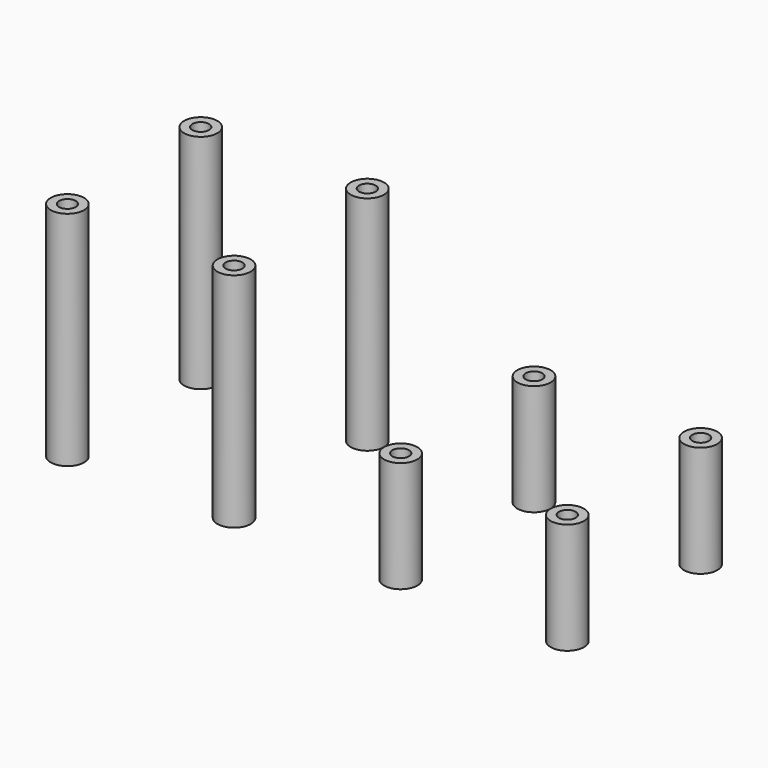
from build123d import *

# Parameters (mm, degrees)
CYLINDER008_R     = 1.5
CYLINDER008_DEPTH = 20
CYLINDER009_R     = 3
CYLINDER009_DEPTH = 20
CYLINDER001_R     = 1.5
CYLINDER001_DEPTH = 40
CYLINDER_R        = 3
CYLINDER_DEPTH    = 40
CYLINDER011_R     = 1.5
CYLINDER011_DEPTH = 40
CYLINDER010_R     = 3
CYLINDER010_DEPTH = 40
CYLINDER013_R     = 1.5
CYLINDER013_DEPTH = 40
CYLINDER012_R     = 3
CYLINDER012_DEPTH = 40
CYLINDER015_R     = 1.5
CYLINDER015_DEPTH = 40
CYLINDER014_R     = 3
CYLINDER014_DEPTH = 40
CYLINDER016_R     = 1.5
CYLINDER016_DEPTH = 20
CYLINDER017_R     = 3
CYLINDER017_DEPTH = 20
CYLINDER018_R     = 1.5
CYLINDER018_DEPTH = 20
CYLINDER019_R     = 3
CYLINDER019_DEPTH = 20
CYLINDER020_R     = 1.5
CYLINDER020_DEPTH = 20
CYLINDER021_R     = 3
CYLINDER021_DEPTH = 20


with BuildPart() as cylinder008:
    # Cylinder008 → Cylinder008 (new body)
    with BuildSketch(Plane(origin=(60, 0, 0), x_dir=(1, 0, 0), z_dir=(0, 0, 1))):
        Circle(CYLINDER008_R)
    extrude(amount=CYLINDER008_DEPTH)


with BuildPart() as cut001:
    # Cylinder009 → Cylinder009 (new body)
    with BuildSketch(Plane(origin=(60, 0, 0), x_dir=(1, 0, 0), z_dir=(0, 0, 1))):
        Circle(CYLINDER009_R)
    extrude(amount=CYLINDER009_DEPTH)

    # Cut001: cut Cylinder008
    add(cylinder008.part, mode=Mode.SUBTRACT)


with BuildPart() as cylinder001:
    # Cylinder001 → Cylinder001 (new body)
    with BuildSketch(Plane.XY):
        Circle(CYLINDER001_R)
    extrude(amount=CYLINDER001_DEPTH)


with BuildPart() as cut:
    # Cylinder → Cylinder (new body)
    with BuildSketch(Plane.XY):
        Circle(CYLINDER_R)
    extrude(amount=CYLINDER_DEPTH)

    # Cut: cut Cylinder001
    add(cylinder001.part, mode=Mode.SUBTRACT)


with BuildPart() as cylinder011:
    # Cylinder011 → Cylinder011 (new body)
    with BuildSketch(Plane.XY):
        Circle(CYLINDER011_R)
    extrude(amount=CYLINDER011_DEPTH)


with BuildPart() as cut002:
    # Cylinder010 → Cylinder010 (new body)
    with BuildSketch(Plane.XY):
        Circle(CYLINDER010_R)
    extrude(amount=CYLINDER010_DEPTH)

    # Cut002: cut Cylinder011
    add(cylinder011.part, mode=Mode.SUBTRACT)


with BuildPart() as cut002_1:
    # Cut002 placement: moved
    add(cut002.part.moved(Location((30, 0, 0))))


with BuildPart() as cylinder013:
    # Cylinder013 → Cylinder013 (new body)
    with BuildSketch(Plane.XY):
        Circle(CYLINDER013_R)
    extrude(amount=CYLINDER013_DEPTH)


with BuildPart() as cut003:
    # Cylinder012 → Cylinder012 (new body)
    with BuildSketch(Plane.XY):
        Circle(CYLINDER012_R)
    extrude(amount=CYLINDER012_DEPTH)

    # Cut003: cut Cylinder013
    add(cylinder013.part, mode=Mode.SUBTRACT)


with BuildPart() as cut003_1:
    # Cut003 placement: moved
    add(cut003.part.moved(Location((30, 30, 0))))


with BuildPart() as cylinder015:
    # Cylinder015 → Cylinder015 (new body)
    with BuildSketch(Plane.XY):
        Circle(CYLINDER015_R)
    extrude(amount=CYLINDER015_DEPTH)


with BuildPart() as cut004:
    # Cylinder014 → Cylinder014 (new body)
    with BuildSketch(Plane.XY):
        Circle(CYLINDER014_R)
    extrude(amount=CYLINDER014_DEPTH)

    # Cut004: cut Cylinder015
    add(cylinder015.part, mode=Mode.SUBTRACT)


with BuildPart() as cut004_1:
    # Cut004 placement: moved
    add(cut004.part.moved(Location((0, 30, 0))))


with BuildPart() as cylinder016:
    # Cylinder016 → Cylinder016 (new body)
    with BuildSketch(Plane(origin=(60, 0, 0), x_dir=(1, 0, 0), z_dir=(0, 0, 1))):
        Circle(CYLINDER016_R)
    extrude(amount=CYLINDER016_DEPTH)


with BuildPart() as cut005:
    # Cylinder017 → Cylinder017 (new body)
    with BuildSketch(Plane(origin=(60, 0, 0), x_dir=(1, 0, 0), z_dir=(0, 0, 1))):
        Circle(CYLINDER017_R)
    extrude(amount=CYLINDER017_DEPTH)

    # Cut005: cut Cylinder016
    add(cylinder016.part, mode=Mode.SUBTRACT)


with BuildPart() as cut005_1:
    # Cut005 placement: moved
    add(cut005.part.moved(Location((30, 0, 0))))


with BuildPart() as cylinder018:
    # Cylinder018 → Cylinder018 (new body)
    with BuildSketch(Plane(origin=(60, 0, 0), x_dir=(1, 0, 0), z_dir=(0, 0, 1))):
        Circle(CYLINDER018_R)
    extrude(amount=CYLINDER018_DEPTH)


with BuildPart() as cut006:
    # Cylinder019 → Cylinder019 (new body)
    with BuildSketch(Plane(origin=(60, 0, 0), x_dir=(1, 0, 0), z_dir=(0, 0, 1))):
        Circle(CYLINDER019_R)
    extrude(amount=CYLINDER019_DEPTH)

    # Cut006: cut Cylinder018
    add(cylinder018.part, mode=Mode.SUBTRACT)


with BuildPart() as cut006_1:
    # Cut006 placement: moved
    add(cut006.part.moved(Location((30, 30, 0))))


with BuildPart() as cylinder020:
    # Cylinder020 → Cylinder020 (new body)
    with BuildSketch(Plane(origin=(60, 0, 0), x_dir=(1, 0, 0), z_dir=(0, 0, 1))):
        Circle(CYLINDER020_R)
    extrude(amount=CYLINDER020_DEPTH)


with BuildPart() as cut007:
    # Cylinder021 → Cylinder021 (new body)
    with BuildSketch(Plane(origin=(60, 0, 0), x_dir=(1, 0, 0), z_dir=(0, 0, 1))):
        Circle(CYLINDER021_R)
    extrude(amount=CYLINDER021_DEPTH)

    # Cut007: cut Cylinder020
    add(cylinder020.part, mode=Mode.SUBTRACT)


with BuildPart() as cut007_1:
    # Cut007 placement: moved
    add(cut007.part.moved(Location((0, 30, 0))))


solid = Compound([cut001.part, cut.part, cut002_1.part, cut003_1.part, cut004_1.part, cut005_1.part, cut006_1.part, cut007_1.part])
